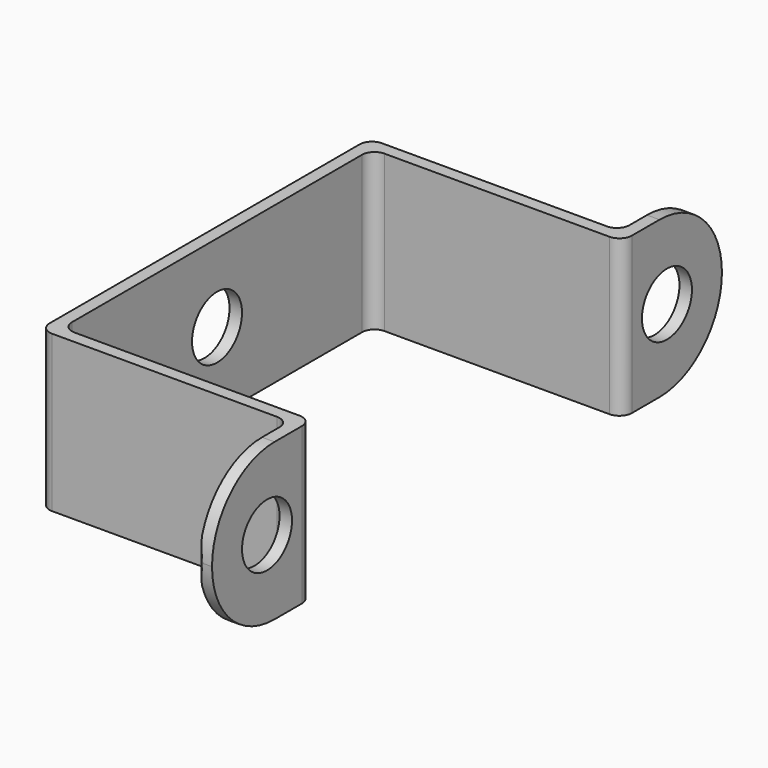
from build123d import *

# Parameters (mm, degrees)
F1_DEPTH = 6.25
F2_R     = 2.5
F3_DEPTH = 1
F4_R     = 2.5
F5_DEPTH = 1


with BuildPart() as f1:
    # F0 (on Top) → F1 (new body, symmetric)
    with BuildSketch(Plane.XY):
        with BuildLine():
            Line((-20, -14.5), (-20, 0))
            Line((-20, 0), (-21, 0))
            Line((-21, 0), (-21, -15.5))
            ThreePointArc((-21, -15.5), (-20.707107, -16.207107), (-20, -16.5))
            Line((-20, -16.5), (-2, -16.5))
            ThreePointArc((-2, -16.5), (-1.292893, -16.792893), (-1, -17.5))
            Line((-1, -17.5), (-1, -25.224715))
            ThreePointArc((-1, -25.224715), (-0.919371, -25.419371), (-0.724715, -25.5))
            Line((-0.724715, -25.5), (0, -25.5))
            Line((0, -25.5), (0, -16.5))
            ThreePointArc((0, -16.5), (-0.292893, -15.792893), (-1, -15.5))
            Line((-1, -15.5), (-19, -15.5))
            ThreePointArc((-19, -15.5), (-19.707107, -15.207107), (-20, -14.5))
        make_face()
        with BuildLine():
            Line((0, 16.5), (0, 25.5))
            Line((0, 25.5), (-0.724715, 25.5))
            ThreePointArc((-0.724715, 25.5), (-0.919371, 25.419371), (-1, 25.224715))
            Line((-1, 25.224715), (-1, 17.5))
            ThreePointArc((-1, 17.5), (-1.292893, 16.792893), (-2, 16.5))
            Line((-2, 16.5), (-20, 16.5))
            ThreePointArc((-20, 16.5), (-20.707107, 16.207107), (-21, 15.5))
            Line((-21, 15.5), (-21, 0))
            Line((-21, 0), (-20, 0))
            Line((-20, 0), (-20, 14.5))
            ThreePointArc((-20, 14.5), (-19.707107, 15.207107), (-19, 15.5))
            Line((-19, 15.5), (-1, 15.5))
            ThreePointArc((-1, 15.5), (-0.292893, 15.792893), (0, 16.5))
        make_face()
    extrude(amount=F1_DEPTH, both=True)

    # F2 (on face) → F3 (cut, through all)
    with BuildSketch(Plane.YZ):
        with BuildLine():
            Line((25.5, 6.25), (19.25, 6.25))
            ThreePointArc((19.25, 6.25), (23.669417, 4.419417), (25.5, 0))
            Line((25.5, 0), (25.5, 6.25))
        make_face()
        with Locations((20, 0)):
            Circle(F2_R)
        with BuildLine():
            Line((25.5, -6.25), (25.5, 0))
            ThreePointArc((25.5, 0), (23.669417, -4.419417), (19.25, -6.25))
            Line((19.25, -6.25), (25.5, -6.25))
        make_face()
        with Locations((-20, 0)):
            Circle(F2_R)
        with BuildLine():
            Line((-25.5, 6.25), (-25.5, 0))
            ThreePointArc((-25.5, 0), (-23.669417, 4.419417), (-19.25, 6.25))
            Line((-19.25, 6.25), (-25.5, 6.25))
        make_face()
        with BuildLine():
            Line((-25.5, -6.25), (-19.25, -6.25))
            ThreePointArc((-19.25, -6.25), (-23.669417, -4.419417), (-25.5, 0))
            Line((-25.5, 0), (-25.5, -6.25))
        make_face()
    extrude(amount=-F3_DEPTH, mode=Mode.SUBTRACT)

    # F4 (on face) → F5 (cut, through all)
    with BuildSketch(Plane(origin=(-21, 0, 0), x_dir=(0, -1, 0), z_dir=(-1, 0, 0))):
        Circle(F4_R)
    extrude(amount=-F5_DEPTH, mode=Mode.SUBTRACT)


solid = f1.part
